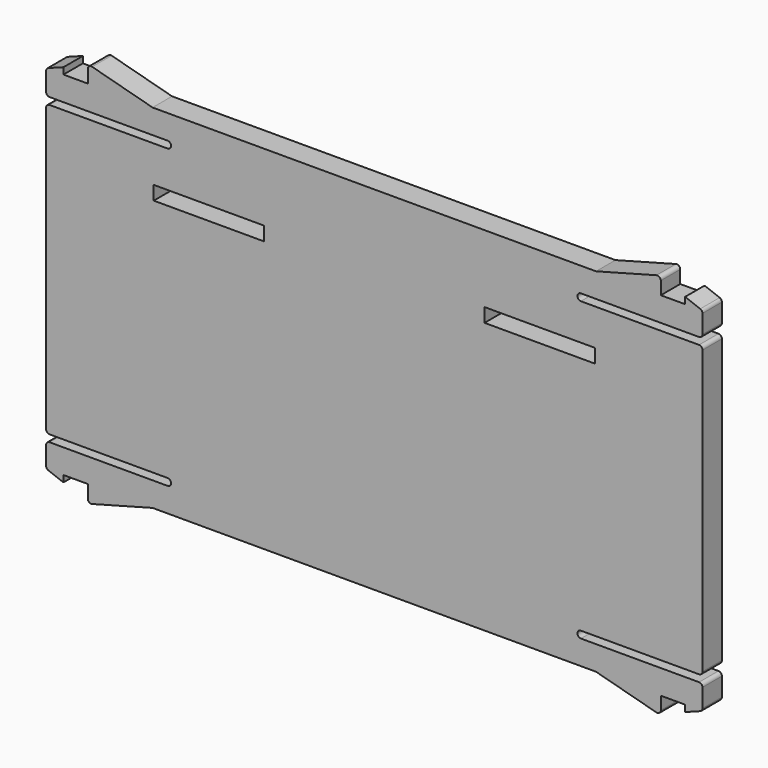
from build123d import *

# Parameters (mm, degrees)
PAD009_DEPTH    = 2.8
FILLET004_R     = 0.4
SKETCH025_W     = 12.7
SKETCH025_H     = 1.6
POCKET014_DEPTH = 2.801


with BuildPart() as part:
    # Sketch009 (on Face6 of ShapeBinder008) → Pad009 (new body)
    with BuildSketch(Plane.XZ.offset(60.388718)):
        with BuildLine():
            Line((37.8, 3.127675), (37.8, 0.327675))
            Line((37.8, 0.327675), (23.8, 0.327675))
            ThreePointArc((23.8, 0.327675), (23.4, -0.072325), (23.8, -0.472325))
            Line((23.8, -0.472325), (37.8, -0.472325))
            Line((37.8, -0.472325), (37.8, -33.872325))
            Line((37.8, -33.872325), (23.8, -33.872325))
            ThreePointArc((23.8, -33.872325), (23.4, -34.272325), (23.8, -34.672325))
            Line((23.8, -34.672325), (37.8, -34.672325))
            Line((37.8, -34.672325), (37.8, -37.472325))
            Line((37.8, -37.472325), (35.8, -38.222325))
            Line((35.8, -38.222325), (35.8, -37.472325))
            Line((35.8, -37.472325), (33, -37.472325))
            Line((33, -37.472325), (33, -39.472325))
            Line((33, -39.472325), (25.535898, -37.472325))
            Line((25.535898, -37.472325), (-25.535898, -37.472325))
            Line((-25.535898, -37.472325), (-33, -39.472325))
            Line((-33, -39.472325), (-33, -37.472325))
            Line((-33, -37.472325), (-35.8, -37.472325))
            Line((-35.8, -38.222325), (-35.8, -37.472325))
            Line((-37.8, -37.472325), (-35.8, -38.222325))
            Line((-37.8, -37.472325), (-37.8, -34.672325))
            Line((-37.8, -34.672325), (-23.8, -34.672325))
            ThreePointArc((-23.8, -34.672325), (-23.4, -34.272325), (-23.8, -33.872325))
            Line((-23.8, -33.872325), (-37.8, -33.872325))
            Line((-37.8, -33.872325), (-37.8, -0.472325))
            Line((-37.8, -0.472325), (-23.8, -0.472325))
            ThreePointArc((-23.8, -0.472325), (-23.4, -0.072325), (-23.8, 0.327675))
            Line((-23.8, 0.327675), (-37.8, 0.327675))
            Line((-37.8, 0.327675), (-37.8, 3.127675))
            Line((-37.8, 3.127675), (-35.8, 3.877675))
            Line((-35.8, 3.877675), (-35.8, 3.127675))
            Line((-35.8, 3.127675), (-33, 3.127675))
            Line((-33, 3.127675), (-33, 5.127675))
            Line((-33, 5.127675), (-25.535898, 3.127675))
            Line((-25.535898, 3.127675), (25.535898, 3.127675))
            Line((25.535898, 3.127675), (33, 5.127675))
            Line((33, 5.127675), (33, 3.127675))
            Line((33, 3.127675), (35.8, 3.127675))
            Line((35.8, 3.877675), (35.8, 3.127675))
            Line((37.8, 3.127675), (35.8, 3.877675))
        make_face()
    extrude(amount=-PAD009_DEPTH)

    # Fillet004
    fillet004_edges = [part.edges().sort_by_distance(p)[0] for p in [
        (33, -58.988718, 5.127675),
        (37.8, -58.988718, 3.127675),
        (37.8, -58.988718, 0.327675),
        (37.8, -58.988718, -0.472325),
        (37.8, -58.988718, -33.872325),
        (37.8, -58.988718, -34.672325),
        (37.8, -58.988718, -37.472325),
        (33, -58.988718, -39.472325),
        (-37.8, -58.988718, -33.872325),
        (-37.8, -58.988718, -34.672325),
        (-37.8, -58.988718, -37.472325),
        (-33, -58.988718, -39.472325),
        (-33, -58.988718, 5.127675),
        (-37.8, -58.988718, 3.127675),
        (-37.8, -58.988718, 0.327675),
        (-37.8, -58.988718, -0.472325),
    ]]
    fillet(fillet004_edges, radius=FILLET004_R)

    # Sketch025 (on Face2 of Fillet004) → Pocket014 (cut, through all)
    with BuildSketch(Plane.XZ.offset(60.388718)):
        with Locations((-19.05, -5.472325)):
            Rectangle(SKETCH025_W, SKETCH025_H)
        with Locations((19.05, -5.472325)):
            Rectangle(SKETCH025_W, SKETCH025_H)
    extrude(amount=-POCKET014_DEPTH, mode=Mode.SUBTRACT)


solid = part.part
